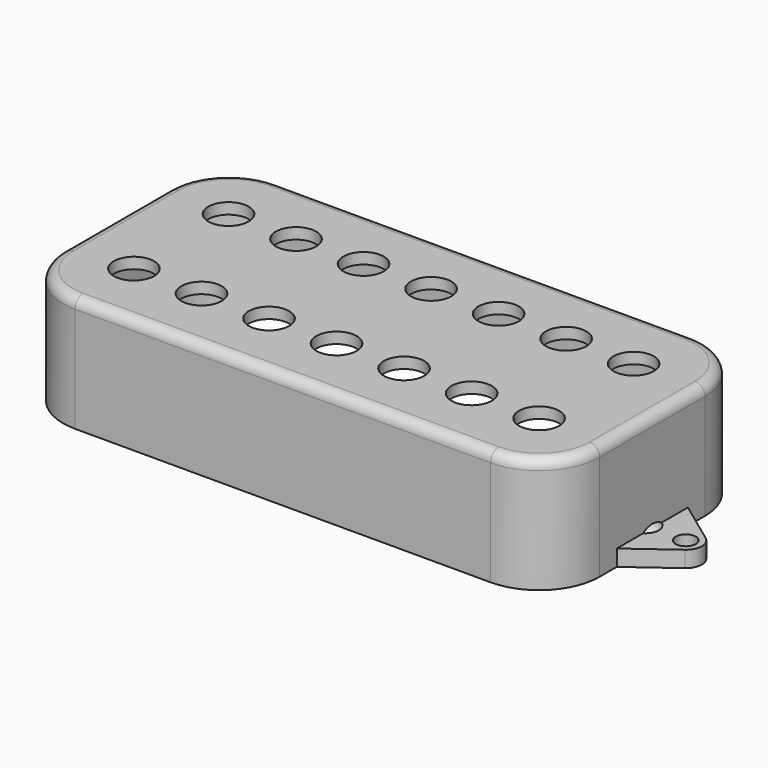
from build123d import *

# Parameters (mm, degrees)
PAD_DEPTH              = 17.15
POCKET_DEPTH           = 15.51
FILLET_R               = 1.5
SKETCH002_R            = 3
HOLE_DEPTH             = 25
LINEARPATTERN_COUNT    = 7
LINEARPATTERN_PITCH    = 10.041667
SKETCH003_R            = 3
HOLE001_DEPTH          = 25
LINEARPATTERN001_COUNT = 7
LINEARPATTERN001_PITCH = 10.041667
PAD001_DEPTH           = 2.41
SKETCH005_R            = 2.38
PAD002_DEPTH           = 2.41
SKETCH006_R            = 1.5
POCKET001_DEPTH        = 223.463007
REVOLUTION_ANGLE       = 90


with BuildPart() as part:
    # Sketch → Pad (new body)
    with BuildSketch(Plane.XY):
        with BuildLine():
            Line((-30.905, 18.795), (30.905, 18.795))
            ThreePointArc((39.905, 9.795), (37.268961, 16.158961), (30.905, 18.795))
            Line((39.905, 9.795), (39.905, -9.795))
            ThreePointArc((30.905, -18.795), (37.268961, -16.158961), (39.905, -9.795))
            Line((30.905, -18.795), (-30.905, -18.795))
            ThreePointArc((-39.905, -9.795), (-37.268961, -16.158961), (-30.905, -18.795))
            Line((-39.905, -9.795), (-39.905, 9.795))
            ThreePointArc((-30.905, 18.795), (-37.268961, 16.158961), (-39.905, 9.795))
        make_face()
    extrude(amount=PAD_DEPTH)

    # Sketch001 (on Face9 of Pad) → Pocket (cut)
    with BuildSketch(Plane(origin=(0, 0, 0), x_dir=(1, 0, 0), z_dir=(0, 0, -1))):
        with BuildLine():
            Line((-30.395, 18.29), (30.395, 18.29))
            ThreePointArc((39.395, 9.29), (36.758961, 15.653961), (30.395, 18.29))
            Line((39.395, 9.29), (39.395, -9.29))
            ThreePointArc((30.395, -18.29), (36.758961, -15.653961), (39.395, -9.29))
            Line((30.395, -18.29), (-30.395, -18.29))
            ThreePointArc((-39.395, -9.29), (-36.758961, -15.653961), (-30.395, -18.29))
            Line((-39.395, -9.29), (-39.395, 9.29))
            ThreePointArc((-30.395, 18.29), (-36.758961, 15.653961), (-39.395, 9.29))
        make_face()
    extrude(amount=-POCKET_DEPTH, mode=Mode.SUBTRACT)

    # Fillet
    fillet_edges = [part.edges().sort_by_distance(p)[0] for p in [
        (-39.905, 0, 17.15),
        (-37.268961, 16.158961, 17.15),
        (0, 18.795, 17.15),
        (37.268961, 16.158961, 17.15),
        (39.905, 0, 17.15),
        (37.268961, -16.158961, 17.15),
        (0, -18.795, 17.15),
        (-37.268961, -16.158961, 17.15),
    ]]
    fillet(fillet_edges, radius=FILLET_R)

    # Sketch002 (on Face8 of Fillet) → Hole (cut)
    with BuildSketch(Plane.XY.offset(17.15)):
        with Locations((-30.155, 8.7875)):
            Circle(SKETCH002_R)
    hole = extrude(amount=-HOLE_DEPTH, mode=Mode.SUBTRACT)

    # LinearPattern: Hole ×7
    with Locations(*[(i * LINEARPATTERN_PITCH, 0, 0) for i in range(1, LINEARPATTERN_COUNT)]):
        add(hole, mode=Mode.SUBTRACT)

    # Sketch003 (on Face8 of LinearPattern) → Hole001 (cut)
    with BuildSketch(Plane.XY.offset(17.15)):
        with Locations((-30.155, -8.7875)):
            Circle(SKETCH003_R)
    hole001 = extrude(amount=-HOLE001_DEPTH, mode=Mode.SUBTRACT)

    # LinearPattern001: Hole001 ×7
    with Locations(*[(i * LINEARPATTERN001_PITCH, 0, 0) for i in range(1, LINEARPATTERN001_COUNT)]):
        add(hole001, mode=Mode.SUBTRACT)

    # Sketch004 → Pad001 (join)
    with BuildSketch(Plane.XY):
        Polygon((39.905, 6.605), (39.905, -6.605), (46.288485, -1.918481), (46.28848, 1.918485), align=None)
    pad001 = extrude(amount=PAD001_DEPTH)

    # Mirrored: Pad001 across Sketch004 V_Axis
    add(pad001.mirror(Plane(origin=(0, 0, 0), x_dir=(0, 0, 1), z_dir=(1, 0, 0))))

    # Sketch005 → Pad002 (join)
    with BuildSketch(Plane.XY):
        with Locations((-44.88, 0)):
            Circle(SKETCH005_R)
    pad002 = extrude(amount=PAD002_DEPTH)

    # Mirrored001: Pad002 across Sketch005 V_Axis
    add(pad002.mirror(Plane(origin=(0, 0, 0), x_dir=(0, 0, 1), z_dir=(1, 0, 0))))

    # Sketch006 → Pocket001 (cut, through all)
    with BuildSketch(Plane.XY):
        with Locations((-44.875, 0)):
            Circle(SKETCH006_R)
    pocket001 = extrude(amount=POCKET001_DEPTH, mode=Mode.SUBTRACT)

    # Mirrored002: Pocket001 across Sketch006 V_Axis
    add(pocket001.mirror(Plane(origin=(0, 0, 0), x_dir=(0, 0, 1), z_dir=(1, 0, 0))), mode=Mode.SUBTRACT)

    # Sketch007 (on Face5 of Mirrored002) → Revolution (revolve)
    with BuildSketch(Plane.XY.offset(2.41)):
        with BuildLine():
            Line((-39.905, 1.699299), (-39.905, 0))
            Line((-39.905, 0), (-40.863067, 0))
            ThreePointArc((-39.905, 1.699299), (-40.601365, 0.972181), (-40.863067, 0))
        make_face()
    revolution = revolve(axis=Axis((0, 0, 0), (1, 0, 0)), revolution_arc=REVOLUTION_ANGLE)

    # Mirrored003: Revolution across Sketch007 V_Axis
    add(revolution.mirror(Plane(origin=(0, 0, 2.41), x_dir=(0, 0, 1), z_dir=(1, 0, 0))))


solid = part.part
